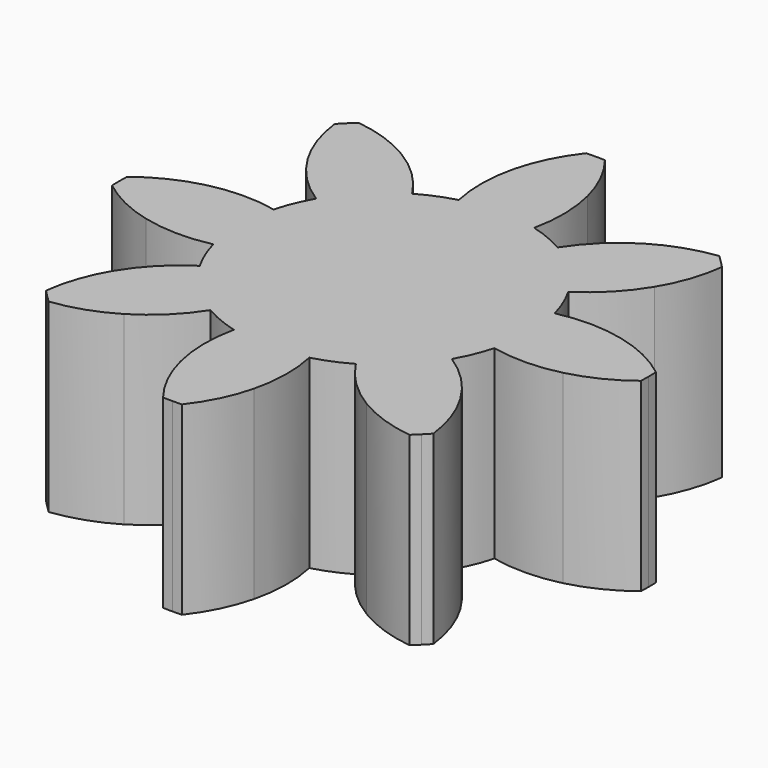
from build123d import *

# Parameters (mm, degrees)
F1_DEPTH = 7
F3_COUNT = 8
F3_ANGLE = 315


with BuildPart() as f1:
    # F0 (on Top) → F1 (new body)
    with BuildSketch(Plane.XY):
        with BuildLine():
            ThreePointArc((-1.4249641593, 5.3122007817), (-3.3475884696, -4.3639032343), (5.5, 0))
            ThreePointArc((5.5, 0), (4.3639032343, 3.3475884696), (1.4249641593, 5.3122007817))
            ThreePointArc((1.4249641593, 5.3122007817), (0, 5.5), (-1.4249641593, 5.3122007817))
        make_face()
        with BuildLine():
            ThreePointArc((-1.4249641593, 5.3122007817), (0, 5.5), (1.4249641593, 5.3122007817))
            ThreePointArc((1.4249641593, 5.3122007817), (1.5553934353, 6.597399257), (1.3891854213, 7.8784620241))
            ThreePointArc((1.3891854213, 7.8784620241), (0.9837129389, 8.990847184), (0.3543820184, 9.9937186965))
            ThreePointArc((0.3543820184, 9.9937186965), (0.1772188405, 9.9984295508), (0, 10))
            ThreePointArc((0, 10), (-0.1772188405, 9.9984295508), (-0.3543820184, 9.9937186965))
            ThreePointArc((-0.3543820184, 9.9937186965), (-0.3587995186, 9.9880877162), (-0.3632098505, 9.9824511198))
            ThreePointArc((-0.3632098505, 9.9824511198), (-0.9868539257, 8.9844162861), (-1.3891854213, 7.8784620241))
            ThreePointArc((-1.3891854213, 7.8784620241), (-1.5553934353, 6.597399257), (-1.4249641593, 5.3122007817))
        make_face()
    extrude(amount=F1_DEPTH)


with BuildPart() as f3_1:
    # F3: instance of F1
    add(f1.part.rotate(Axis((0, 0, 21.9664014876), (0, 0, -1)), 1 * F3_ANGLE / (F3_COUNT - 1)))


with BuildPart() as f3_2:
    # F3: instance of F1
    add(f1.part.rotate(Axis((0, 0, 21.9664014876), (0, 0, -1)), 2 * F3_ANGLE / (F3_COUNT - 1)))


with BuildPart() as f3_3:
    # F3: instance of F1
    add(f1.part.rotate(Axis((0, 0, 21.9664014876), (0, 0, -1)), 3 * F3_ANGLE / (F3_COUNT - 1)))


with BuildPart() as f3_4:
    # F3: instance of F1
    add(f1.part.rotate(Axis((0, 0, 21.9664014876), (0, 0, -1)), 4 * F3_ANGLE / (F3_COUNT - 1)))


with BuildPart() as f3_5:
    # F3: instance of F1
    add(f1.part.rotate(Axis((0, 0, 21.9664014876), (0, 0, -1)), 5 * F3_ANGLE / (F3_COUNT - 1)))


with BuildPart() as f3_6:
    # F3: instance of F1
    add(f1.part.rotate(Axis((0, 0, 21.9664014876), (0, 0, -1)), 6 * F3_ANGLE / (F3_COUNT - 1)))


with BuildPart() as f3_7:
    # F3: instance of F1
    add(f1.part.rotate(Axis((0, 0, 21.9664014876), (0, 0, -1)), 7 * F3_ANGLE / (F3_COUNT - 1)))


with BuildPart() as f3_6_1:
    add(f3_6.part)

    # F4: union F3_5, F3_4, F3_3, F3_2, F3_1, F1, F3_7
    add(f3_5.part)
    add(f3_4.part)
    add(f3_3.part)
    add(f3_2.part)
    add(f3_1.part)
    add(f1.part)
    add(f3_7.part)


solid = f3_6_1.part
